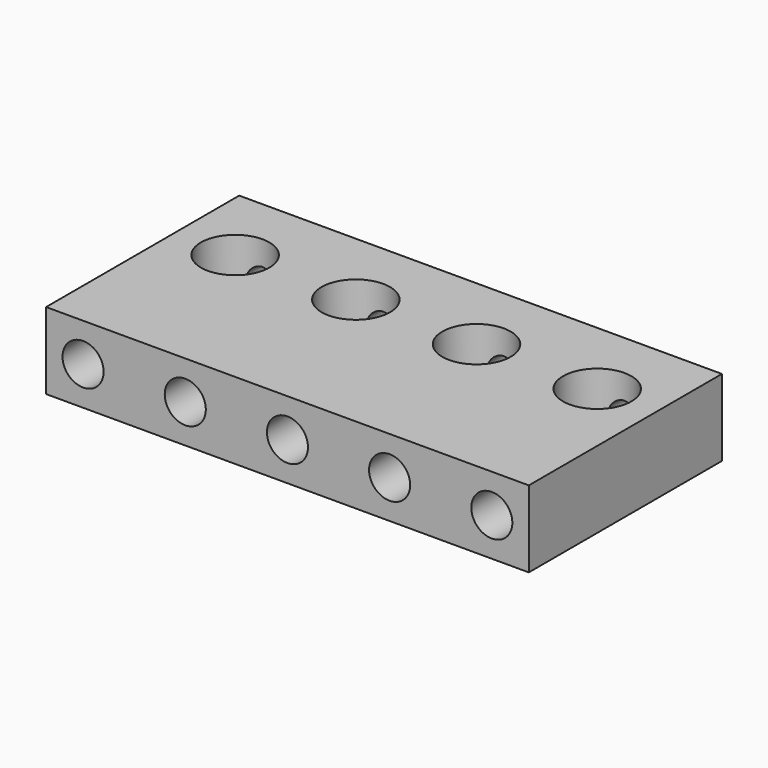
from build123d import *

# Parameters (mm, degrees)
F1_DEPTH = 9.525
F2_D     = 8.5
F2_DEPTH = 8
F2_TIP   = 2.5536576309
F4_D     = 5.1054
F4_DEPTH = 7.54
F4_TIP   = 1.5338169022
F6_D     = 3.4544
F6_DEPTH = 6.5875
F6_TIP   = 1.0378064612


with BuildPart() as f1:
    # F0 (on Top) → F1 (new body)
    with BuildSketch(Plane.XY):
        Polygon((-30, 0), (0, 0), (30, 0), (30, 30), (0, 30), (-30, 30), align=None)
    extrude(amount=-F1_DEPTH)

    # F2
    with Locations(Plane.XY):
        with Locations((-22.5, 20), (-7.5, 20), (7.5, 20), (22.5, 20)):
            Hole(F2_D / 2, depth=F2_DEPTH)
            with Locations((0, 0, -(F2_DEPTH + F2_TIP / 2))):  # 118° drill point
                Cone(0, F2_D / 2, F2_TIP, mode=Mode.SUBTRACT)

    # F4
    with Locations(Plane.XZ):
        with Locations((-25.4, -4.7625), (-12.7, -4.7625), (0, -4.7625), (12.7, -4.7625), (25.4, -4.7625)):
            Hole(F4_D / 2, depth=F4_DEPTH)
            with Locations((0, 0, -(F4_DEPTH + F4_TIP / 2))):  # 118° drill point
                Cone(0, F4_D / 2, F4_TIP, mode=Mode.SUBTRACT)

    # F6
    with Locations(Plane(origin=(0, 30, 0), x_dir=(-1, 0, 0), z_dir=(0, 1, 0))):
        with Locations((-22.5, -4.7625), (-7.5, -4.7625), (7.5, -4.7625), (22.5, -4.7625)):
            Hole(F6_D / 2, depth=F6_DEPTH)
            with Locations((0, 0, -(F6_DEPTH + F6_TIP / 2))):  # 118° drill point
                Cone(0, F6_D / 2, F6_TIP, mode=Mode.SUBTRACT)


solid = f1.part
